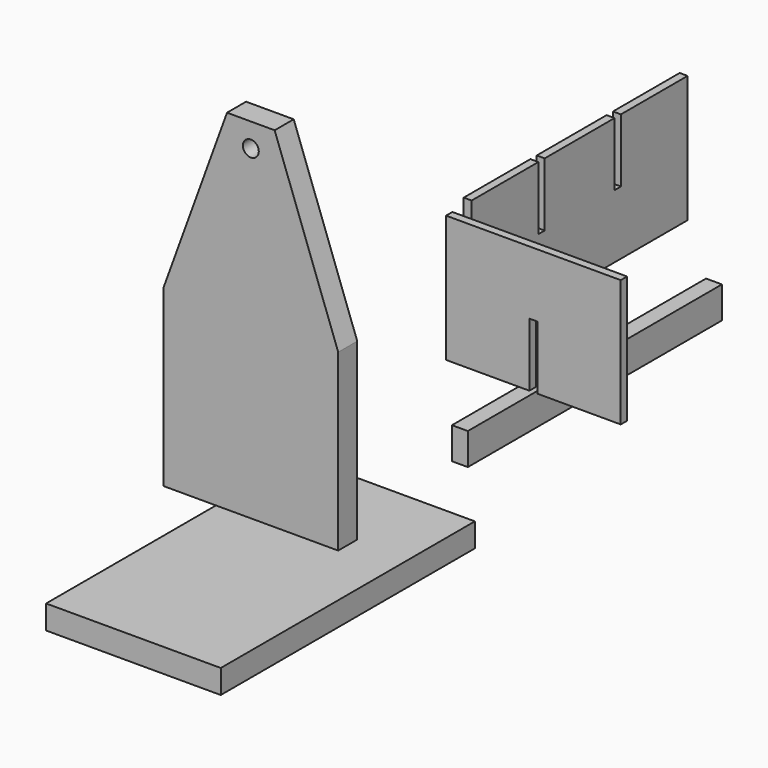
from build123d import *

# Parameters (mm, degrees)
F2_W     = 254
F2_H     = 25.4
F3_DEPTH = 12.7
F1_R     = 6.35
F4_DEPTH = 9.525
F0_W     = 139.7
F0_H     = 19.05
F5_DEPTH = 127
F7_DEPTH = 3.175
F9_DEPTH = 6.35


with BuildPart() as f3:
    # F2 (on Right) → F3 (new body)
    with BuildSketch(Plane.YZ):
        with Locations((154.283948, 25.912475)):
            Rectangle(F2_W, F2_H)
    extrude(amount=F3_DEPTH)


with BuildPart() as f4:
    # F1 (on Front) → F4 (new body, symmetric)
    with BuildSketch(Plane.XZ):
        Polygon((-201.246336, 84.968814), (-201.246336, -54.731186), (-61.546336, -54.731186), (-61.546336, 84.968814), (-112.346336, 224.668814), (-150.446336, 224.668814), align=None)
        with Locations((-131.396336, 205.618814)):
            Circle(F1_R, mode=Mode.SUBTRACT)
    extrude(amount=F4_DEPTH, both=True)


with BuildPart() as f5:
    # F0 (on Front) → F5 (new body, symmetric)
    with BuildSketch(Plane.XZ):
        with Locations((-131.317047, -99.13432)):
            Rectangle(F0_W, F0_H)
    extrude(amount=F5_DEPTH, both=True)


with BuildPart() as f7:
    # F6 (on Right) → F7 (new body, symmetric)
    with BuildSketch(Plane.YZ):
        Polygon((42.990074, 191.412407), (42.990074, 89.812407), (258.890074, 89.812407), (258.890074, 191.412407), (192.215074, 191.412407), (192.215074, 140.612407), (185.865074, 140.612407), (185.865074, 191.412407), (116.015074, 191.412407), (116.015074, 140.612407), (109.665074, 140.612407), (109.665074, 191.412407), align=None)
    extrude(amount=F7_DEPTH, both=True)


with BuildPart() as f9:
    # F8 (on Front) → F9 (new body)
    with BuildSketch(Plane.XZ):
        Polygon((161.877349, 105.431862), (161.877349, 207.031862), (22.177349, 207.031862), (22.177349, 105.431862), (88.852349, 105.431862), (88.852349, 156.231862), (95.202349, 156.231862), (95.202349, 105.431862), align=None)
    extrude(amount=F9_DEPTH)


solid = Compound([f3.part, f4.part, f5.part, f7.part, f9.part])
